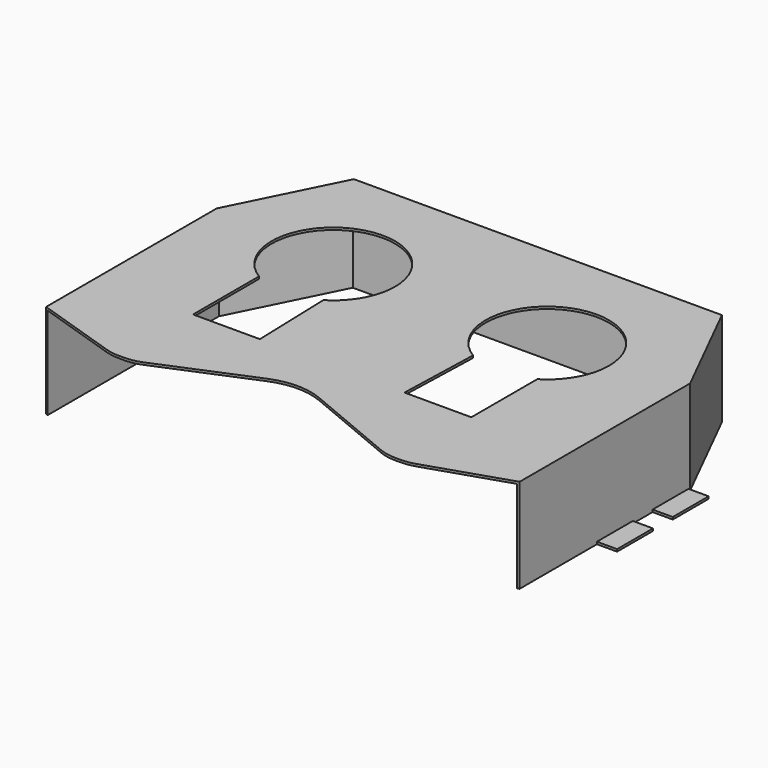
from build123d import *

# Parameters (mm, degrees)
F1_DEPTH = 4.2
F2_W     = 20.9
F2_H     = 4.1
F3_DEPTH = 10
F5_DEPTH = 4.1
F6_W     = 0.9
F6_H     = 2
F7_DEPTH = 0.1
F9_DEPTH = 25


with BuildPart() as f1:
    # F0 (on Top) → F1 (new body)
    with BuildSketch(Plane.XY):
        with BuildLine():
            Line((0, 10.05713), (-8.199971, 10.05713))
            Line((-8.199971, 10.05713), (-10.55, 5.35))
            Line((-10.55, 5.35), (-10.55, -4.15))
            Line((-10.55, -4.15), (-6.896709, -5.343926))
            ThreePointArc((-6.896709, -5.343926), (-6.589984, -5.417979), (-6.275429, -5.44287))
            Line((-6.275429, -5.44287), (-6.046804, -5.44287))
            ThreePointArc((-6.046804, -5.44287), (-5.653998, -5.403917), (-5.276493, -5.288574))
            Line((-5.276493, -5.288574), (-1.155466, -3.56865))
            ThreePointArc((-1.155466, -3.56865), (0, -3.337205), (1.155466, -3.56865))
            Line((1.155466, -3.56865), (5.276493, -5.288574))
            ThreePointArc((5.276493, -5.288574), (5.653998, -5.403917), (6.046804, -5.44287))
            Line((6.046804, -5.44287), (6.275429, -5.44287))
            ThreePointArc((6.275429, -5.44287), (6.589984, -5.417979), (6.896709, -5.343926))
            Line((6.896709, -5.343926), (10.55, -4.15))
            Line((10.55, -4.15), (10.55, 5.35))
            Line((10.55, 5.35), (8.199971, 10.05713))
            Line((8.199971, 10.05713), (0, 10.05713))
        make_face()
    extrude(amount=F1_DEPTH)

    # F2 (on face) → F3 (cut)
    with BuildSketch(Plane.XZ.offset(5.44287)):
        with Locations((0, 2.05)):
            Rectangle(F2_W, F2_H)
    extrude(amount=-F3_DEPTH, mode=Mode.SUBTRACT)

    # F4 (on face) → F5 (cut)
    with BuildSketch(Plane(origin=(0, 0, 0), x_dir=(1, 0, 0), z_dir=(0, 0, -1))):
        Polygon((10.45, -4.55713), (-10.45, -4.55713), (-10.45, -5.35), (-8.156886, -9.943129), (8.15174, -9.953437), (10.45, -5.35), align=None)
    extrude(amount=-F5_DEPTH, mode=Mode.SUBTRACT)

    # F6 (on Top) → F7 (join)
    with BuildSketch(Plane.XY):
        with Locations((-11, 4.25713)):
            Rectangle(F6_W, F6_H)
        with Locations((-11, 1.15713)):
            Rectangle(F6_W, F6_H)
        with Locations((11, 1.15713)):
            Rectangle(F6_W, F6_H)
        with Locations((11, 4.25713)):
            Rectangle(F6_W, F6_H)
    extrude(amount=F7_DEPTH)

    # F8 (on face) → F9 (cut)
    with BuildSketch(Plane.XY.offset(4.2)):
        with BuildLine():
            ThreePointArc((-3.33593, 2.273972), (-2.369798, 3.275535), (-2.017699, 4.621852))
            ThreePointArc((-2.017699, 4.621852), (-6.114016, 7.019753), (-6.199468, 2.273972))
            ThreePointArc((-6.199468, 2.273972), (-4.767699, 1.871852), (-3.33593, 2.273972))
        make_face()
        with BuildLine():
            ThreePointArc((-3.33593, 2.273972), (-4.767699, 1.871852), (-6.199468, 2.273972))
            Line((-6.199468, 2.273972), (-6.199468, -1.400822))
            Line((-6.199468, -1.400822), (-3.222397, -1.400822))
            Line((-3.222397, -1.400822), (-3.33593, 2.273972))
        make_face()
        with BuildLine():
            ThreePointArc((6.199468, 2.273972), (7.165601, 3.275535), (7.517699, 4.621852))
            ThreePointArc((7.517699, 4.621852), (3.421383, 7.019753), (3.33593, 2.273972))
            ThreePointArc((3.33593, 2.273972), (4.767699, 1.871852), (6.199468, 2.273972))
        make_face()
        with BuildLine():
            ThreePointArc((6.199468, 2.273972), (4.767699, 1.871852), (3.33593, 2.273972))
            Line((3.33593, 2.273972), (3.222397, -1.400822))
            Line((3.222397, -1.400822), (6.199468, -1.400822))
            Line((6.199468, -1.400822), (6.199468, 2.273972))
        make_face()
    extrude(amount=-F9_DEPTH, mode=Mode.SUBTRACT)


solid = f1.part
